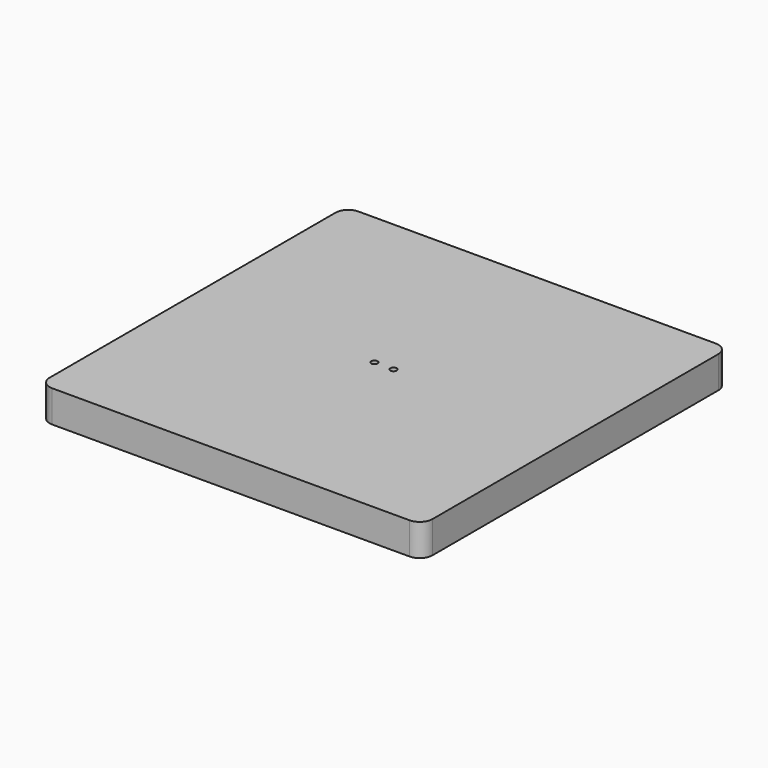
from build123d import *

# Parameters (mm, degrees)
F0_W     = 300
F0_H     = 300
F0_R     = 2.5
F1_DEPTH = 25
F2_R     = 10


with BuildPart() as f1:
    # F0 (on Top) → F1 (new body)
    with BuildSketch(Plane.XY):
        Rectangle(F0_W, F0_H)
        with Locations((-7.5, 0)):
            Circle(F0_R, mode=Mode.SUBTRACT)
        with Locations((7.5, 0)):
            Circle(F0_R, mode=Mode.SUBTRACT)
    extrude(amount=F1_DEPTH)

    # F2
    f2_edges = [f1.edges().sort_by_distance(p)[0] for p in [
        (150, 150, 12.5),
        (-150, 150, 12.5),
        (150, -150, 12.5),
        (-150, -150, 12.5),
    ]]
    fillet(f2_edges, radius=F2_R)


solid = f1.part
